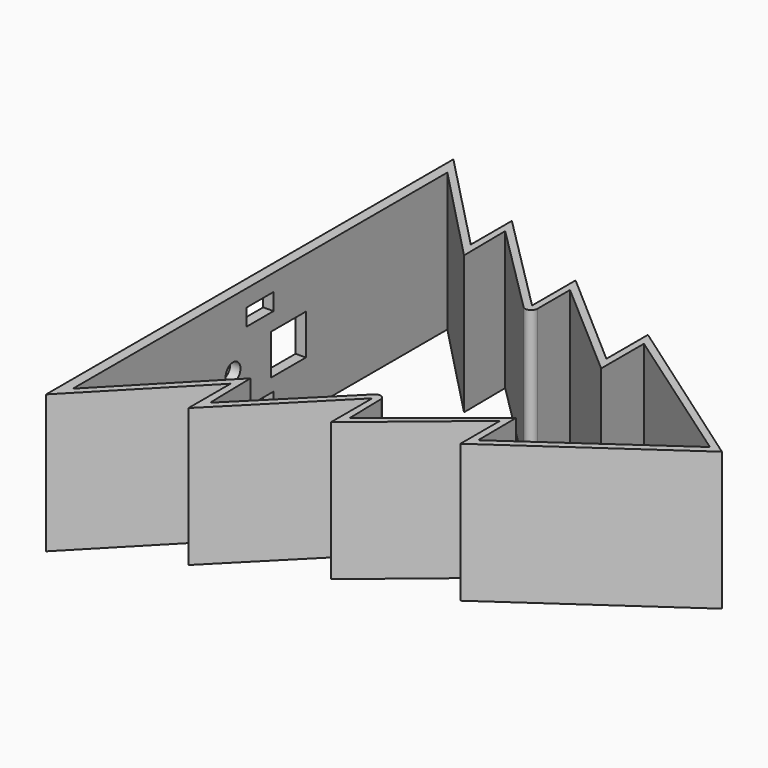
from build123d import *

# Parameters (mm, degrees)
BOX_W                   = 3.1
BOX_H                   = 13
BOX_DEPTH               = 12
BOX001_W                = 3.1
BOX001_H                = 10
BOX001_DEPTH            = 5
BOX002_W                = 3.1
BOX002_H                = 10
BOX002_DEPTH            = 5
CYLINDER_R              = 2.75
CYLINDER_DEPTH          = 3.1
CYLINDER_PITCH_ANGLE    = 90
CYLINDER001_R           = 2.75
CYLINDER001_DEPTH       = 3.06
CYLINDER001_PITCH_ANGLE = 90
PAD001_DEPTH            = 41
POCKET_DEPTH            = 41


with BuildPart() as usb:
    # Box → Box (new body)
    with BuildSketch(Plane(origin=(-130.1, 4, 14), x_dir=(1, 0, 0), z_dir=(0, 0, 1))):
        with Locations((1.55, 6.5)):
            Rectangle(BOX_W, BOX_H)
    extrude(amount=BOX_DEPTH)


with BuildPart() as obj1:
    # Box001 → Box001 (new body)
    with BuildSketch(Plane(origin=(-130.1, -5, 5), x_dir=(1, 0, 0), z_dir=(0, 0, 1))):
        with Locations((1.55, 5)):
            Rectangle(BOX001_W, BOX001_H)
    extrude(amount=BOX001_DEPTH)


with BuildPart() as obj2:
    # Box002 → Box002 (new body)
    with BuildSketch(Plane(origin=(-130.1, -5, 31), x_dir=(1, 0, 0), z_dir=(0, 0, 1))):
        with Locations((1.55, 5)):
            Rectangle(BOX002_W, BOX002_H)
    extrude(amount=BOX002_DEPTH)


with BuildPart() as passage:
    # Cylinder → Cylinder (new body)
    with BuildSketch(Plane.XY):
        Circle(CYLINDER_R)
    extrude(amount=CYLINDER_DEPTH)


with BuildPart() as passage_1:
    # Cylinder pitch: moved
    add(passage.part.rotate(Axis((0, 0, 0), (0, 1, 0)), CYLINDER_PITCH_ANGLE))


with BuildPart() as passage_2:
    # Cylinder placement: moved
    add(passage_1.part.moved(Location((-130.1, -10, 21))))


with BuildPart() as inter:
    # Cylinder001 → Cylinder001 (new body)
    with BuildSketch(Plane.XY):
        Circle(CYLINDER001_R)
    extrude(amount=CYLINDER001_DEPTH)


with BuildPart() as inter_1:
    # Cylinder001 pitch: moved
    add(inter.part.rotate(Axis((0, 0, 0), (0, 1, 0)), CYLINDER001_PITCH_ANGLE))


with BuildPart() as inter_2:
    # Cylinder001 placement: moved
    add(inter_1.part.moved(Location((-130.09, -34, 21))))


with BuildPart() as cut004:
    # Sketch → Pad001 (new body)
    with BuildSketch(Plane.XY):
        Polygon((-130.081082, 75.519378), (-130.081082, -75.526209), (-100.046493, -44.621067), (-100.046493, -60.2838), (-69.840584, -29.852762), (-69.840584, -45.201256), (-39.66638, -20.21052), (-39.66638, -34.900669), (10.150305, -0.184029), (-39.87487, 34.909859), (-39.87487, 19.507401), (-70.024222, 45.766594), (-70.024222, 29.628657), (-100.203184, 59.856933), (-100.203184, 44.62989), align=None)
    extrude(amount=PAD001_DEPTH)

    # Sketch001 → Pocket (cut)
    with BuildSketch(Plane.XY.offset(41)):
        with BuildLine():
            Line((-71.118897, 27.836128), (-98.21559, 54.89476))
            Line((-98.21559, 54.89476), (-98.042604, 39.408949))
            Line((-98.042604, 39.408949), (-127.035297, 69.474451))
            Line((-127.035297, 69.474451), (-127.035297, -69.407334))
            Line((-127.035297, -69.407334), (-98.142096, -39.664917))
            Line((-98.142096, -39.664917), (-97.815397, -55.06776))
            Line((-97.815397, -55.06776), (-70.664267, -27.971977))
            ThreePointArc((-70.664267, -27.971977), (-68.985652, -27.629399), (-68.009835, -29.037549))
            Line((-68.009835, -29.037549), (-67.738941, -40.844618))
            Line((-67.738941, -40.844618), (-37.683933, -16.715946))
            Line((-37.683933, -16.715946), (-37.564096, -30.955577))
            Line((-37.564096, -30.955577), (6.510068, -0.080506))
            Line((6.510068, -0.080506), (-37.808934, 30.841439))
            Line((-37.808934, 30.841439), (-37.808934, 14.972198))
            Line((-37.808934, 14.972198), (-68.032287, 41.206368))
            Line((-68.032287, 41.206368), (-68.032287, 29.115915))
            ThreePointArc((-68.032287, 29.115915), (-69.148192, 27.44521), (-71.118897, 27.836128))
        make_face()
    extrude(amount=-POCKET_DEPTH, mode=Mode.SUBTRACT)

    # Cut: cut Inter
    add(inter_2.part, mode=Mode.SUBTRACT)

    # Cut001: cut Passage
    add(passage_2.part, mode=Mode.SUBTRACT)

    # Cut002: cut obj2
    add(obj2.part, mode=Mode.SUBTRACT)

    # Cut003: cut obj1
    add(obj1.part, mode=Mode.SUBTRACT)

    # Cut004: cut Usb
    add(usb.part, mode=Mode.SUBTRACT)


solid = cut004.part
